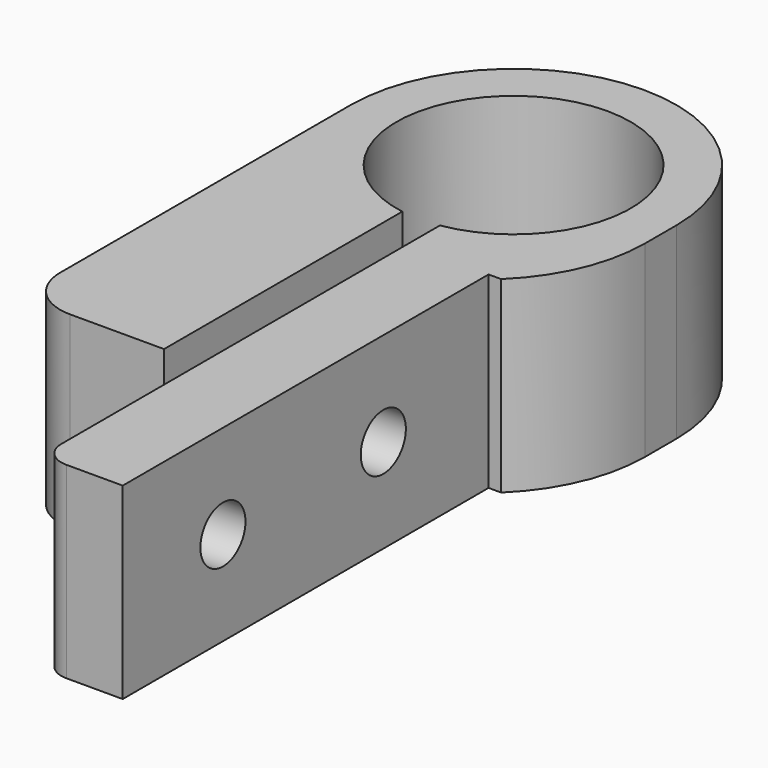
from build123d import *

# Parameters (mm, degrees)
PAD029_DEPTH    = 15
SKETCH081_R     = 2.25
HOLE038_DEPTH   = 26.001
POCKET053_DEPTH = 18
POCKET054_DEPTH = 6.5


with BuildPart() as part:
    # Sketch079 → Pad029 (new body)
    with BuildSketch(Plane.XY):
        with BuildLine():
            ThreePointArc((117, 103.771105), (115.5, 122.35), (114, 103.771105))
            Line((114, 103.771105), (114, 80))
            Line((106.5, 80), (114, 80))
            ThreePointArc((102.5, 84), (103.671573, 81.171573), (106.5, 80))
            Line((102.5, 113), (102.5, 84))
            ThreePointArc((128.5, 113), (115.5, 126), (102.5, 113))
            Line((128.5, 113), (128.5, 109.880832))
            ThreePointArc((124.5, 100.5), (127.458261, 104.781812), (128.5, 109.880832))
            Line((123.5, 100.5), (124.5, 100.5))
            Line((123.5, 64), (123.5, 100.5))
            Line((119, 64), (123.5, 64))
            ThreePointArc((117, 66), (117.585786, 64.585786), (119, 64))
            Line((117, 103.771105), (117, 66))
        make_face()
    extrude(amount=PAD029_DEPTH)

    # Sketch081 (on DatumPlane) → Hole038 (cut, through all)
    with BuildSketch(Plane(origin=(128.5, 0, 0), x_dir=(0, 0, 1), z_dir=(1, 0, 0))):
        with Locations((7.5, -90)):
            Circle(SKETCH081_R)
        with Locations((7.5, -74)):
            Circle(SKETCH081_R)
    extrude(amount=-HOLE038_DEPTH, mode=Mode.SUBTRACT)

    # Sketch082 (on DatumPlane) → Pocket053 (cut)
    with BuildSketch(Plane(origin=(102.5, 0, 0), x_dir=(0, -1, 0), z_dir=(-1, 0, 0))):
        Polygon((-69.785343, 7.5), (-71.892672, 11.15), (-76.107328, 11.15), (-78.214657, 7.5), (-76.107328, 3.85), (-71.892672, 3.85), align=None)
    extrude(amount=-POCKET053_DEPTH, mode=Mode.SUBTRACT)

    # Sketch083 (on DatumPlane) → Pocket054 (cut)
    with BuildSketch(Plane(origin=(102.5, 0, 0), x_dir=(0, -1, 0), z_dir=(-1, 0, 0))):
        Polygon((-85.785343, 7.5), (-87.892672, 11.15), (-92.107328, 11.15), (-94.214657, 7.5), (-92.107328, 3.85), (-87.892672, 3.85), align=None)
    extrude(amount=-POCKET054_DEPTH, mode=Mode.SUBTRACT)


with BuildPart() as part_1:
    # Body022006 placement: moved
    add(part.part.moved(Location((-2.5, 0, 770))))


solid = part_1.part
